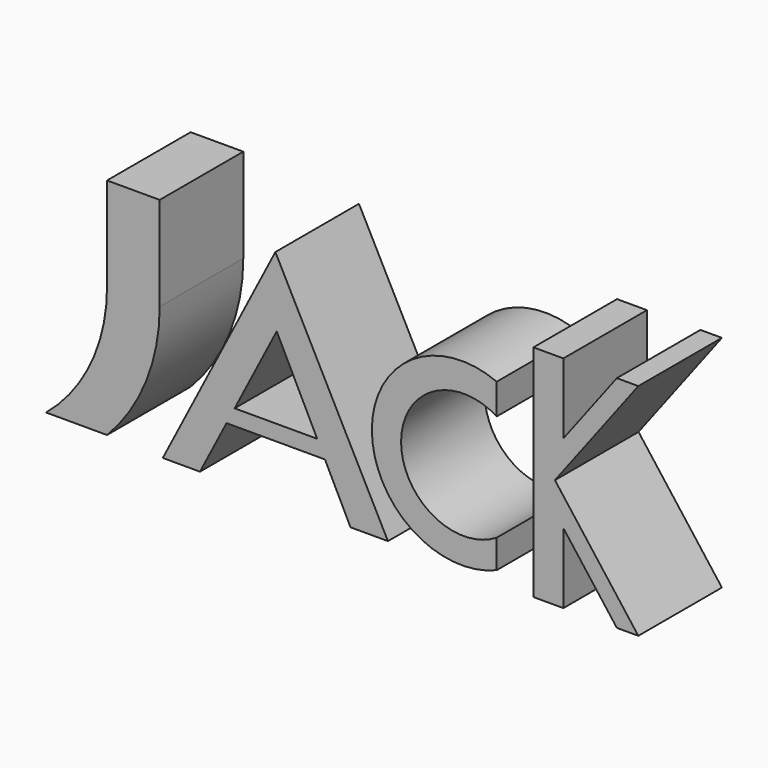
from build123d import *

# Parameters (mm, degrees)
F1_DEPTH = 25.4


with BuildPart() as f1:
    # F0 (on Front) → F1 (new body)
    with BuildSketch(Plane.XZ):
        with BuildLine():
            Line((-39.885167, 32.430485), (-52.689951, 32.430485))
            Line((-52.689951, 32.430485), (-52.689951, 9.582735))
            ThreePointArc((-52.689951, 9.582735), (-56.576687, -7.88317), (-67.503326, -22.052614))
            Line((-67.503326, -22.052614), (-52.689951, -22.052614))
            ThreePointArc((-52.689951, -22.052614), (-43.207725, -7.481539), (-39.885167, 9.582735))
            Line((-39.885167, 9.582735), (-39.885167, 32.430485))
        make_face()
        Polygon((-11.764859, 30.42189), (-39.131943, -22.554761), (-30.093275, -22.554761), (-23.636066, -10.055025), (0, -10.055025), (0.291961, -10.055025), (6.500092, -22.554761), (15.602227, -22.554761), align=None)
        Polygon((-21.669115, -6.247442), (-11.436766, 13.560135), (-1.599116, -6.247442), align=None, mode=Mode.SUBTRACT)
        with BuildLine():
            Line((42.039016, 12.723338), (42.039016, 20.168223))
            ThreePointArc((42.039016, 20.168223), (11.693227, 0), (42.039016, -20.168223))
            Line((42.039016, -20.168223), (42.039016, -13.216021))
            ThreePointArc((42.039016, -13.216021), (18.793716, -0.246342), (42.039016, 12.723338))
        make_face()
        Polygon((58.242183, 30.42189), (50.966509, 30.42189), (50.966509, -23.022369), (58.242183, -23.022369), (58.242183, -5.892041), (71.236059, -23.022369), (76.46456, -23.022369), (56.195009, 3.699761), (76.46456, 30.42189), (71.236059, 30.42189), (58.242183, 13.291563), align=None)
    extrude(amount=F1_DEPTH)


solid = f1.part
